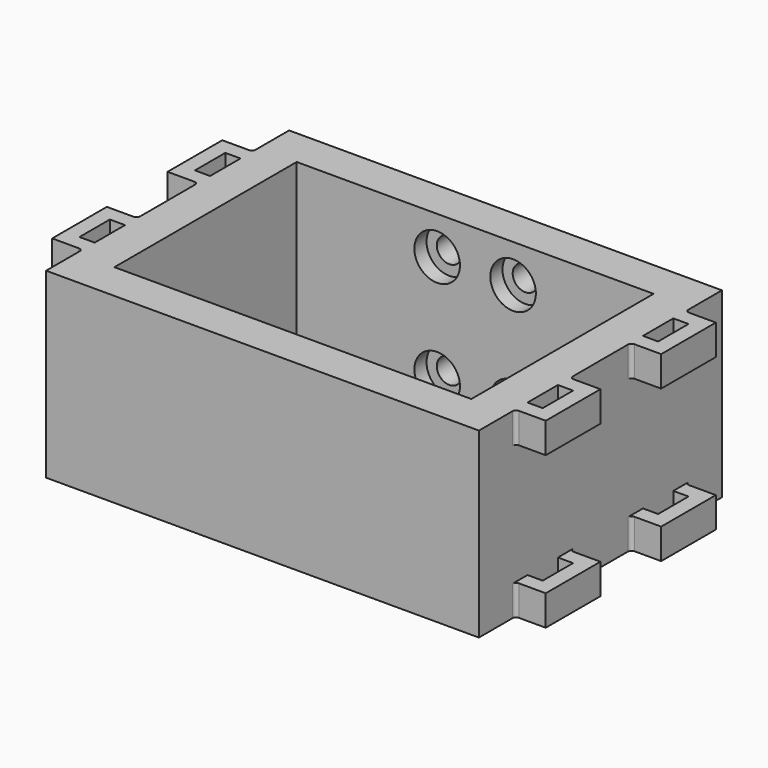
from build123d import *

# Parameters (mm, degrees)
F0_W     = 2
F0_H     = 5
F0_W_2   = 47
F0_H_2   = 30
F1_DEPTH = 24
F2_W     = 40
F2_H     = 16
F3_DEPTH = 4
F4_W     = 40
F4_H     = 16
F5_DEPTH = 4
F6_R     = 1.65
F7_DEPTH = 25
F8_R     = 3
F9_DEPTH = 2


with BuildPart() as f1:
    # F0 (on Top) → F1 (new body)
    with BuildSketch(Plane.XY):
        with BuildLine():
            Line((28.5, 14.5), (28.5, 20))
            Line((28.5, 20), (-28.5, 20))
            Line((-28.5, 20), (-28.5, 14.5))
            ThreePointArc((-28.5, 14.5), (-28.646447, 14.146447), (-29, 14))
            Line((-29, 14), (-32.5, 14))
            Line((-32.5, 14), (-32.5, 5))
            Line((-32.5, 5), (-29, 5))
            ThreePointArc((-29, 5), (-28.646447, 4.853553), (-28.5, 4.5))
            Line((-28.5, 4.5), (-28.5, -4.5))
            ThreePointArc((-28.5, -4.5), (-28.646447, -4.853553), (-29, -5))
            Line((-29, -5), (-32.5, -5))
            Line((-32.5, -5), (-32.5, -14))
            Line((-32.5, -14), (-29, -14))
            ThreePointArc((-29, -14), (-28.646447, -14.146447), (-28.5, -14.5))
            Line((-28.5, -14.5), (-28.5, -20))
            Line((-28.5, -20), (28.5, -20))
            Line((28.5, -20), (28.5, -14.5))
            ThreePointArc((28.5, -14.5), (28.646447, -14.146447), (29, -14))
            Line((29, -14), (32.5, -14))
            Line((32.5, -14), (32.5, -5))
            Line((32.5, -5), (29, -5))
            ThreePointArc((29, -5), (28.646447, -4.853553), (28.5, -4.5))
            Line((28.5, -4.5), (28.5, 4.5))
            ThreePointArc((28.5, 4.5), (28.646447, 4.853553), (29, 5))
            Line((29, 5), (32.5, 5))
            Line((32.5, 5), (32.5, 14))
            Line((32.5, 14), (29, 14))
            ThreePointArc((29, 14), (28.646447, 14.146447), (28.5, 14.5))
        make_face()
        with Locations((-29.5, -9.5)):
            Rectangle(F0_W, F0_H, mode=Mode.SUBTRACT)
        with Locations((29.5, -9.5)):
            Rectangle(F0_W, F0_H, mode=Mode.SUBTRACT)
        with Locations((-29.5, 9.5)):
            Rectangle(F0_W, F0_H, mode=Mode.SUBTRACT)
        Rectangle(F0_W_2, F0_H_2, mode=Mode.SUBTRACT)
        with Locations((29.5, 9.5)):
            Rectangle(F0_W, F0_H, mode=Mode.SUBTRACT)
    extrude(amount=F1_DEPTH)

    # F2 (on face) → F3 (cut)
    with BuildSketch(Plane(origin=(-32.5, 0, 0), x_dir=(0, -1, 0), z_dir=(-1, 0, 0))):
        with Locations((0, 12)):
            Rectangle(F2_W, F2_H)
    extrude(amount=-F3_DEPTH, mode=Mode.SUBTRACT)

    # F4 (on face) → F5 (cut)
    with BuildSketch(Plane.YZ.offset(32.5)):
        with Locations((0, 12)):
            Rectangle(F4_W, F4_H)
    extrude(amount=-F5_DEPTH, mode=Mode.SUBTRACT)

    # F6 (on face) → F7 (cut)
    with BuildSketch(Plane.XZ.offset(-15)):
        with Locations((-5, 19)):
            Circle(F6_R)
        with Locations((-5, 5)):
            Circle(F6_R)
        with Locations((5, 19)):
            Circle(F6_R)
        with Locations((5, 5)):
            Circle(F6_R)
    extrude(amount=-F7_DEPTH, mode=Mode.SUBTRACT)

    # F8 (on face) → F9 (cut)
    with BuildSketch(Plane.XZ.offset(-15)):
        with Locations((-5, 19)):
            Circle(F8_R)
        with Locations((-5, 5)):
            Circle(F8_R)
        with Locations((5, 19)):
            Circle(F8_R)
        with Locations((5, 5)):
            Circle(F8_R)
    extrude(amount=-F9_DEPTH, mode=Mode.SUBTRACT)


solid = f1.part
